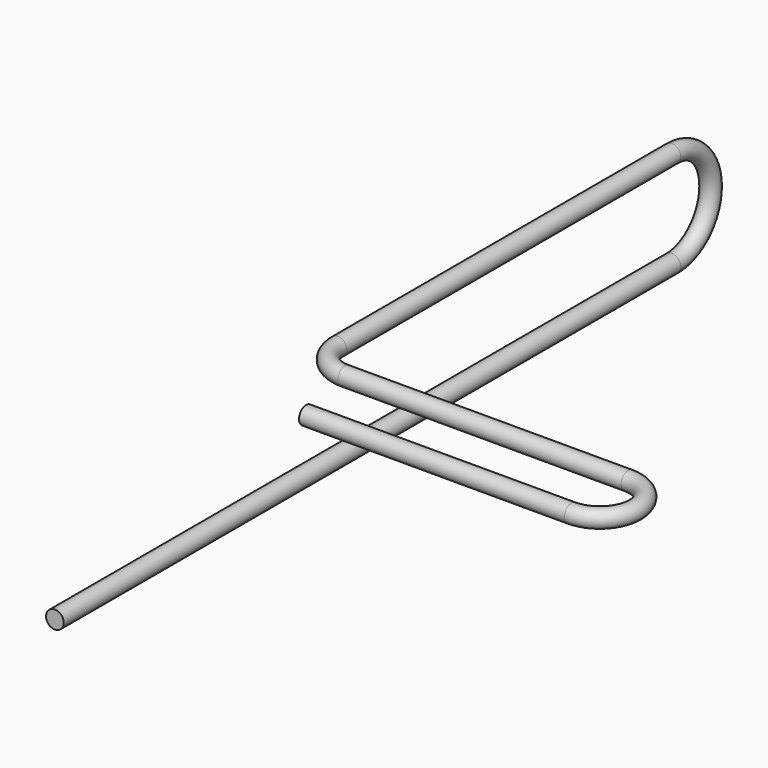
from build123d import *

# Parameters (mm, degrees)
F2_R     = 3.175
F4_DEPTH = 127


with BuildPart() as f3:
    # F3: sweep along a path in F0, F1
    with BuildLine(Plane.YZ) as f3_path:
        Line((0, -34.6964), (149.86, -34.6964))
        ThreePointArc((149.86, -34.6964), (167.2082, -17.3482), (149.86, 0))
        Line((149.86, 0), (0, 0))
    with BuildLine(Plane.XY) as f3_path_2:
        ThreePointArc((0, 0), (3.7197438789, -8.9802561211), (12.7, -12.7))
        Line((12.7, -12.7), (114.3, -12.7))
        ThreePointArc((114.3, -12.7), (127, -25.4), (114.3, -38.1))
        Line((114.3, -38.1), (19.05, -38.1))
    # F2 (on Front) → F3 (sweep)
    with BuildSketch(Plane.XZ):
        with Locations((0, -34.6964)):
            Circle(F2_R)
    sweep(path=f3_path.line + f3_path_2.line)

    # F4 (add): a face of the model
    f4_faces = [f3.faces().sort_by_distance(p)[0] for p in [
        (0, 0, -34.6964),
    ]]
    extrude(f4_faces, amount=F4_DEPTH)


solid = f3.part
